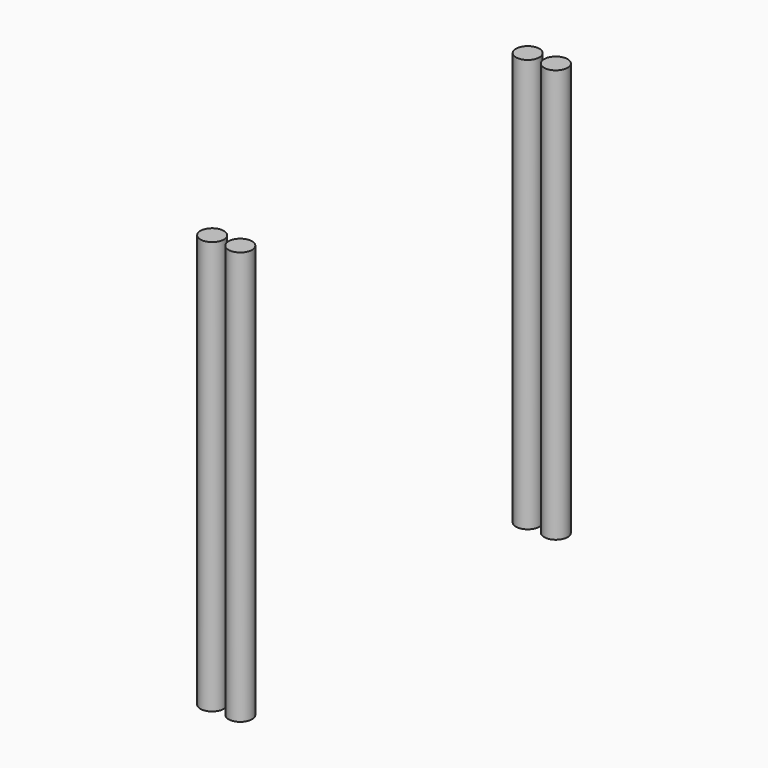
from build123d import *

# Parameters (mm, degrees)
F1_R     = 125
F2_DEPTH = 4400


with BuildPart() as f2:
    # F1 (on offset) → F2 (new body)
    with BuildSketch(Plane.XY.offset(2260)):
        with Locations((150, -2100)):
            Circle(F1_R)
    extrude(amount=F2_DEPTH)


with BuildPart() as f3_1:
    # F3: instance of F2
    add(f2.part.mirror(Plane.YZ))


with BuildPart() as f4_1:
    # F4: instance of F2
    add(f2.part.mirror(Plane.XZ))


with BuildPart() as f4_2:
    # F4: instance of F3_1
    add(f3_1.part.mirror(Plane.XZ))


solid = Compound([f2.part, f3_1.part, f4_1.part, f4_2.part])
